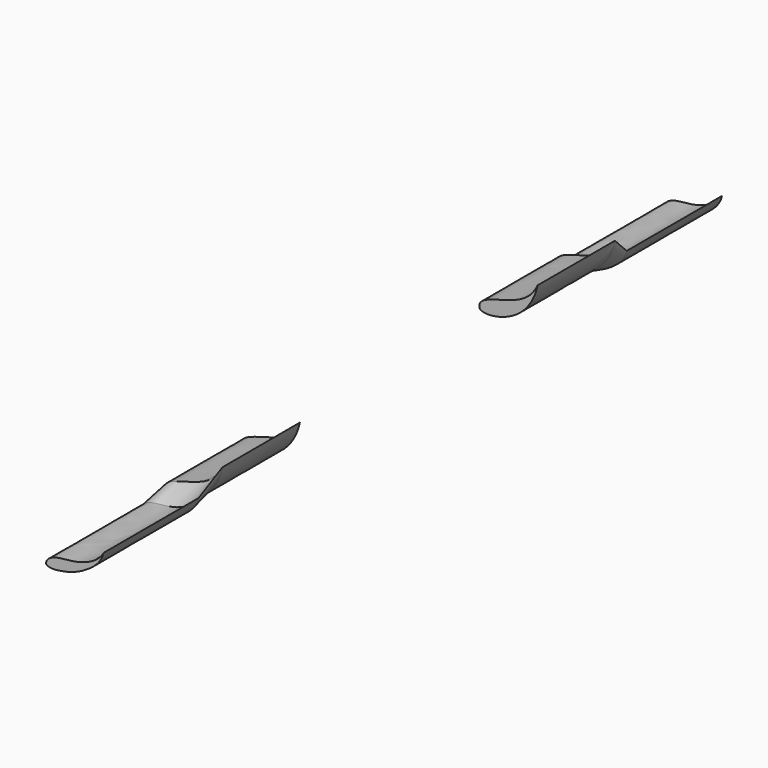
from build123d import *

# Parameters (mm, degrees)
F4_DEPTH = 197
F5_DEPTH = 160


with BuildPart() as f4:
    # F3 (on offset) → F4 (new body)
    with BuildSketch(Plane.XZ.offset(443)):
        with BuildLine():
            add(Edge.make_bspline(
                [(-1004.9820351601, 234.760463655), (-1005.3949773081, 240.9553906737), (-990.4391649182, 252.3391398937), (-954.573777552, 249.7769825256), (-916.562087141, 266.9848715388), (-910.0258755684, 281.4100686908)],
                knots=[0, 0, 0, 0, 0.2437248607, 0.5922044376, 1, 1, 1, 1], degree=3))
            add(Edge.make_bspline(
                [(-1004.9820351601, 234.760463655), (-1001.1874842644, 229.0979180932), (-970.4668291882, 232.6979835189), (-941.184486446, 243.9467682926), (-913.1030249596, 265.2548555732), (-910.0258755684, 281.4100686908)],
                knots=[0, 0, 0, 0, 0.3001272623, 0.6281990546, 1, 1, 1, 1], degree=3))
        make_face()
    extrude(amount=F4_DEPTH)


with BuildPart() as f5:
    # F1 (on offset) → F5 (new body)
    with BuildSketch(Plane.XZ.offset(246)):
        with BuildLine():
            add(Edge.make_bspline(
                [(-996.343255043, 250.1226663589), (-997.6038289993, 257.6864699182), (-986.0482000952, 268.2331913503), (-946.0611500296, 275.535669466), (-910.2455973625, 291.8205857277), (-900.0237584114, 314.5357966423)],
                knots=[0, 0, 0, 0, 0.2304701972, 0.5747205304, 1, 1, 1, 1], degree=3))
            add(Edge.make_bspline(
                [(-996.343255043, 250.1226663589), (-993.1605537334, 245.373173818), (-969.3891132379, 243.6614591508), (-922.9906106352, 261.9001566209), (-903.8425484406, 295.8662170546), (-900.0237584114, 314.5357966423)],
                knots=[0, 0, 0, 0, 0.2517334612, 0.6150544532, 1, 1, 1, 1], degree=3))
        make_face()
    extrude(amount=F5_DEPTH)


with BuildPart() as f6:
    # F5_face (on face) → F6 section 0
    with BuildSketch(Plane(origin=(-952.4749550056, -406, 266.7721840589), x_dir=(1, 0, 0), z_dir=(0, -1, 0))):
        with BuildLine():
            add(Edge.make_bspline(
                [(-43.8683000374, -16.6495176999), (-45.1288739937, -9.0857141407), (-33.5732450896, 1.4610072914), (6.413804976, 8.7634854071), (42.2293576431, 25.0484016688), (52.4511965942, 47.7636125834)],
                knots=[0, 0, 0, 0, 0.2304701972, 0.5747205304, 1, 1, 1, 1], degree=3))
            add(Edge.make_bspline(
                [(-43.8683000374, -16.6495176999), (-40.6855987278, -21.3990102409), (-16.9141582322, -23.1107249081), (29.4843443704, -4.8720274379), (48.632406565, 29.0940329957), (52.4511965942, 47.7636125834)],
                knots=[0, 0, 0, 0, 0.2517334612, 0.6150544532, 1, 1, 1, 1], degree=3))
        make_face()
    # F4_face (on face) → F6 section 1
    with BuildSketch(Plane(origin=(-964.483956669, -443, 246.3604390238), x_dir=(1, 0, 0), z_dir=(0, 1, 0))):
        with BuildLine():
            add(Edge.make_bspline(
                [(-40.498078491, 11.5999753688), (-40.911020639, 5.4050483501), (-25.9552082492, -5.9787008699), (9.910179117, -3.4165435018), (47.921869528, -20.624432515), (54.4580811006, -35.049629667)],
                knots=[0, 0, 0, 0, 0.2437248607, 0.5922044376, 1, 1, 1, 1], degree=3))
            add(Edge.make_bspline(
                [(-40.498078491, 11.5999753688), (-36.7035275954, 17.2625209306), (-5.9828725192, 13.6624555048), (23.299470223, 2.4136707312), (51.3809317095, -18.8944165494), (54.4580811006, -35.049629667)],
                knots=[0, 0, 0, 0, 0.3001272623, 0.6281990546, 1, 1, 1, 1], degree=3))
        make_face()
    loft()


with BuildPart() as f7_1:
    # F7: instance of F5
    add(f5.part.mirror(Plane.XZ))


with BuildPart() as f7_2:
    # F7: instance of F6
    add(f6.part.mirror(Plane.XZ))


with BuildPart() as f7_3:
    # F7: instance of F4
    add(f4.part.mirror(Plane.XZ))


solid = Compound([f4.part, f5.part, f6.part, f7_1.part, f7_2.part, f7_3.part])
